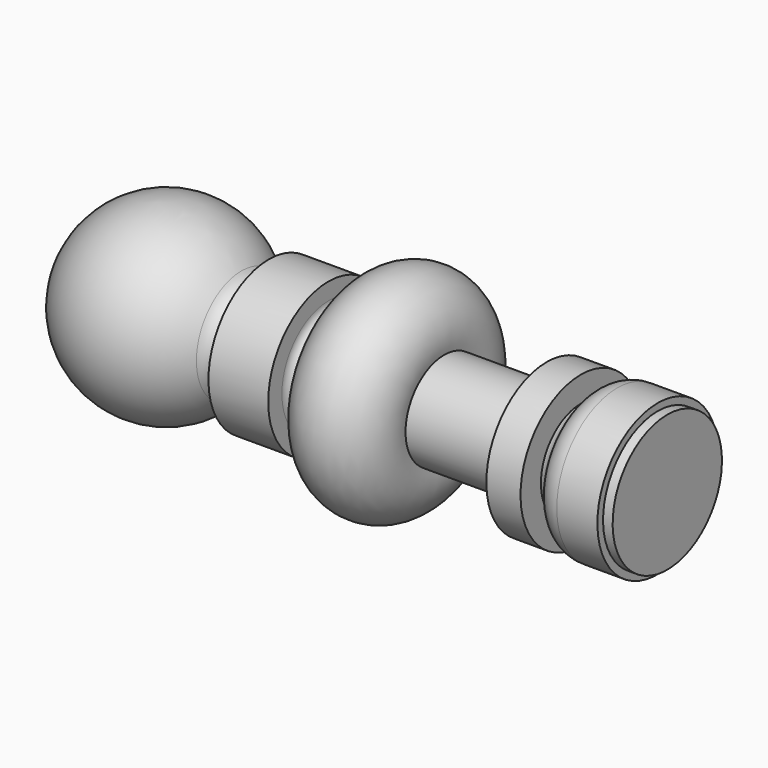
from build123d import *


with BuildPart() as f1:
    # F0 (on Front) → F1 (revolve)
    with BuildSketch(Plane.XZ):
        with BuildLine():
            Line((-33, 0), (0, 0))
            Line((0, 0), (176, 0))
            Line((176, 0), (176, 24))
            Line((176, 24), (172.635805, 24))
            Line((172.635805, 24), (172.635805, 26.5))
            Line((172.635805, 26.5), (158.379509, 26.5))
            ThreePointArc((158.379509, 26.5), (153.287841, 25.020281), (149.782327, 21.042087))
            ThreePointArc((149.782327, 21.042087), (148.091488, 18.839646), (145.635805, 17.543769))
            Line((145.635805, 17.543769), (145.635805, 26.5))
            Line((145.635805, 26.5), (133.635805, 26.5))
            Line((133.635805, 26.5), (133.635805, 17))
            Line((133.635805, 17), (97.635805, 17))
            ThreePointArc((97.635805, 17), (82.759449, 37.408706), (64, 20.5))
            ThreePointArc((64, 20.5), (60.5, 17), (57, 20.5))
            Line((57, 20.5), (57, 26.5))
            Line((57, 26.5), (36, 26.5))
            Line((36, 26.5), (36, 17))
            Line((36, 17), (32, 17))
            ThreePointArc((32, 17), (28.869505, 17.73901), (26.4, 19.8))
            ThreePointArc((26.4, 19.8), (-10.435516, 31.306549), (-33, 0))
        make_face()
    revolve(axis=Axis((88, 0, 0), (1, 0, 0)))


solid = f1.part
